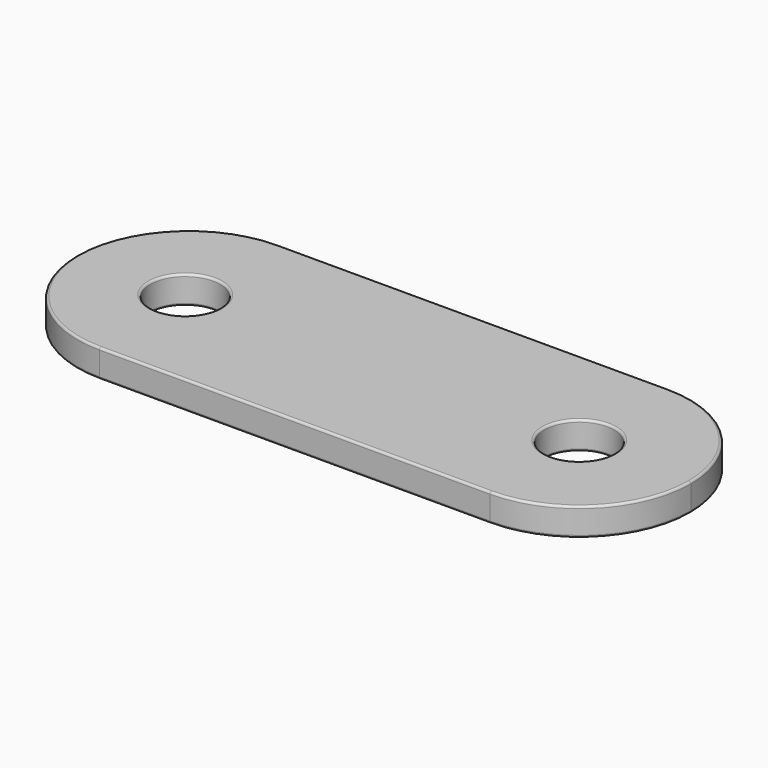
from build123d import *

# Parameters (mm, degrees)
F0_R     = 3.125
F1_DEPTH = 2.5
F2_R     = 0.2


with BuildPart() as f1:
    # F0 (on Top) → F1 (new body)
    with BuildSketch(Plane.XY):
        with BuildLine():
            Line((-17.5, -10), (17.5, -10))
            ThreePointArc((17.5, -10), (24.571068, -7.071068), (27.5, 0))
            ThreePointArc((27.5, 0), (24.571068, 7.071068), (17.5, 10))
            Line((17.5, 10), (-17.5, 10))
            ThreePointArc((-17.5, 10), (-24.571068, 7.071068), (-27.5, 0))
            ThreePointArc((-27.5, 0), (-24.571068, -7.071068), (-17.5, -10))
        make_face()
        with Locations((-17.815998, 0)):
            Circle(F0_R, mode=Mode.SUBTRACT)
        with Locations((17.5, 0)):
            Circle(F0_R, mode=Mode.SUBTRACT)
    extrude(amount=F1_DEPTH)

    # F2
    f2_edges = [f1.edges().sort_by_distance(p)[0] for p in [
        (-27.5, 0, 2.5),
        (0, 10, 2.5),
        (27.5, 0, 2.5),
        (0, -10, 2.5),
        (-20.940998, 0, 2.5),
        (14.375, 0, 2.5),
        (-20.940998, 0, 0),
        (14.375, 0, 0),
        (27.5, 0, 0),
        (0, -10, 0),
        (-27.5, 0, 0),
        (0, 10, 0),
    ]]
    fillet(f2_edges, radius=F2_R)


solid = f1.part
